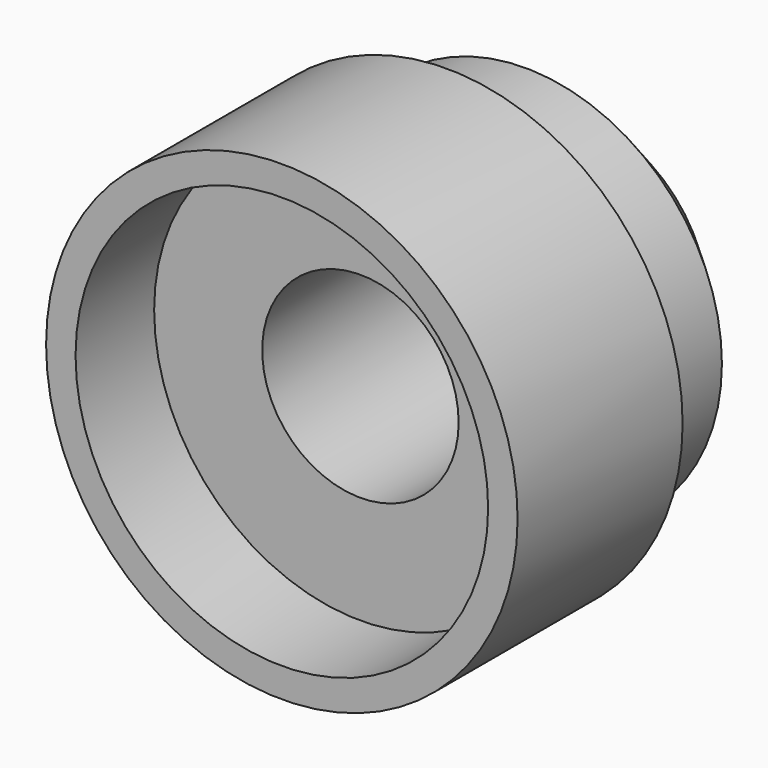
from build123d import *

# Parameters (mm, degrees)
F0_R     = 12
F1_DEPTH = 19
F3_R     = 12
F3_R_2   = 10
F4_DEPTH = 13
F6_R     = 5
F7_DEPTH = 25
F8_R     = 10.5
F9_DEPTH = 5
F10_SIZE = 3.5


with BuildPart() as f1:
    # F0 (on Front) → F1 (new body)
    with BuildSketch(Plane.XZ):
        Circle(F0_R)
    extrude(amount=-F1_DEPTH)

    # F3 (on offset) → F4 (cut)
    with BuildSketch(Plane.XZ.offset(-10.5)):
        Circle(F3_R)
        Circle(F3_R_2, mode=Mode.SUBTRACT)
    extrude(amount=-F4_DEPTH, mode=Mode.SUBTRACT)

    # F6 (on offset) → F7 (cut)
    with BuildSketch(Plane(origin=(0, 19, 0), x_dir=(1, 0, 0), z_dir=(0, 1, 0))):
        Circle(F6_R)
    extrude(amount=-F7_DEPTH, mode=Mode.SUBTRACT)

    # F8 (on Front) → F9 (cut)
    with BuildSketch(Plane.XZ):
        Circle(F8_R)
    extrude(amount=-F9_DEPTH, mode=Mode.SUBTRACT)

    # F10
    f10_edges = [f1.edges().sort_by_distance(p)[0] for p in [
        (-10, 19, 0),
    ]]
    chamfer(f10_edges, length=F10_SIZE)


solid = f1.part
